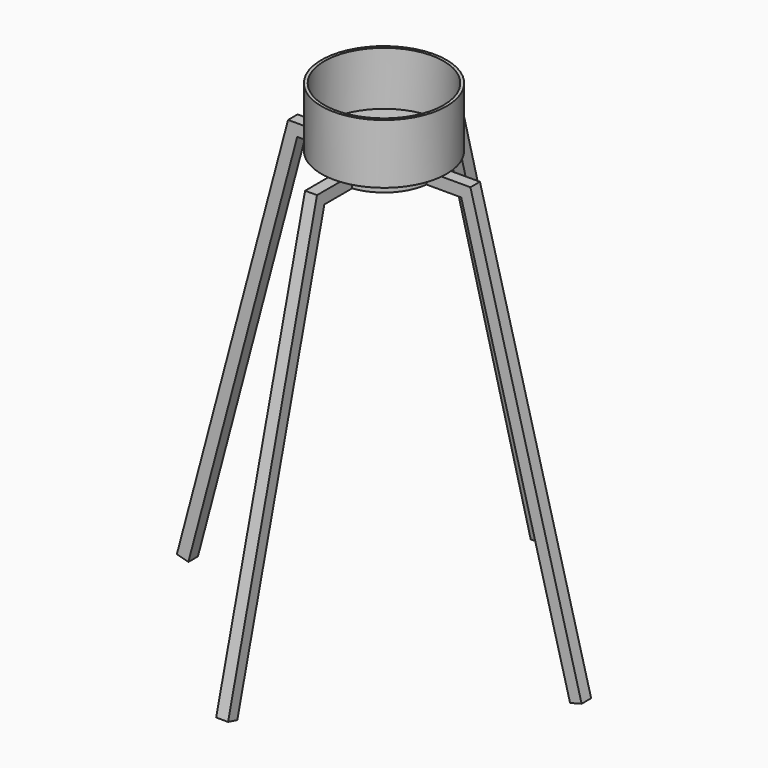
from build123d import *

# Parameters (mm, degrees)
F0_R      = 50
F1_DEPTH  = 5
F0_R_2    = 52.5
F2_DEPTH  = 50
F3_R      = 20
F4_DEPTH  = 5
F5_R      = 40
F5_R_2    = 35
F6_DEPTH  = 10
F7_W      = 10
F7_H      = 10
F10_W     = 38.9961674809
F10_H     = 10
F11_DEPTH = 10
F12_COUNT = 4


with BuildPart() as f1:
    # F0 (on Top) → F1 (new body)
    with BuildSketch(Plane.XY):
        Circle(F0_R)
    extrude(amount=F1_DEPTH)

    # F0 (on Top) → F2 (join)
    with BuildSketch(Plane.XY):
        Circle(F0_R_2)
        Circle(F0_R, mode=Mode.SUBTRACT)
    extrude(amount=F2_DEPTH)

    # F3 (on face) → F4 (cut, through all)
    with BuildSketch(Plane(origin=(0, 0, 0), x_dir=(1, 0, 0), z_dir=(0, 0, -1))):
        Circle(F3_R)
    extrude(amount=-F4_DEPTH, mode=Mode.SUBTRACT)

    # F5 (on face) → F6 (join)
    with BuildSketch(Plane(origin=(0, 0, 0), x_dir=(1, 0, 0), z_dir=(0, 0, -1))):
        Circle(F5_R)
        Circle(F5_R_2, mode=Mode.SUBTRACT)
    extrude(amount=F6_DEPTH)


with BuildPart() as f9:
    # F9: sweep along a path in F8
    with BuildLine(Plane.XZ) as f9_path:
        Line((38.947891444, -3.9150873199), (73.4415277839, -3.9150873199))
        Line((73.4415277839, -3.9150873199), (175.9153455496, -389.5892798901))
    # F7 (on Right) → F9 (sweep)
    with BuildSketch(Plane.YZ):
        with Locations((0, -5)):
            Rectangle(F7_W, F7_H)
    sweep(path=f9_path.line, transition=Transition.RIGHT)

    # F10 (on face) → F11 (cut, through all)
    with BuildSketch(Plane(origin=(0, 0, -10), x_dir=(1, 0, 0), z_dir=(0, 0, -1))):
        with Locations((19.4980837405, 0)):
            Rectangle(F10_W, F10_H)
    extrude(amount=-F11_DEPTH, mode=Mode.SUBTRACT)


with BuildPart() as f12_1:
    # F12: instance of F9
    add(f9.part.rotate(Axis((0, 0, -10), (0, 0, -1)), 1 * 360 / F12_COUNT))


with BuildPart() as f12_2:
    # F12: instance of F9
    add(f9.part.rotate(Axis((0, 0, -10), (0, 0, -1)), 2 * 360 / F12_COUNT))


with BuildPart() as f12_3:
    # F12: instance of F9
    add(f9.part.rotate(Axis((0, 0, -10), (0, 0, -1)), 3 * 360 / F12_COUNT))


solid = Compound([f1.part, f9.part, f12_1.part, f12_2.part, f12_3.part])
